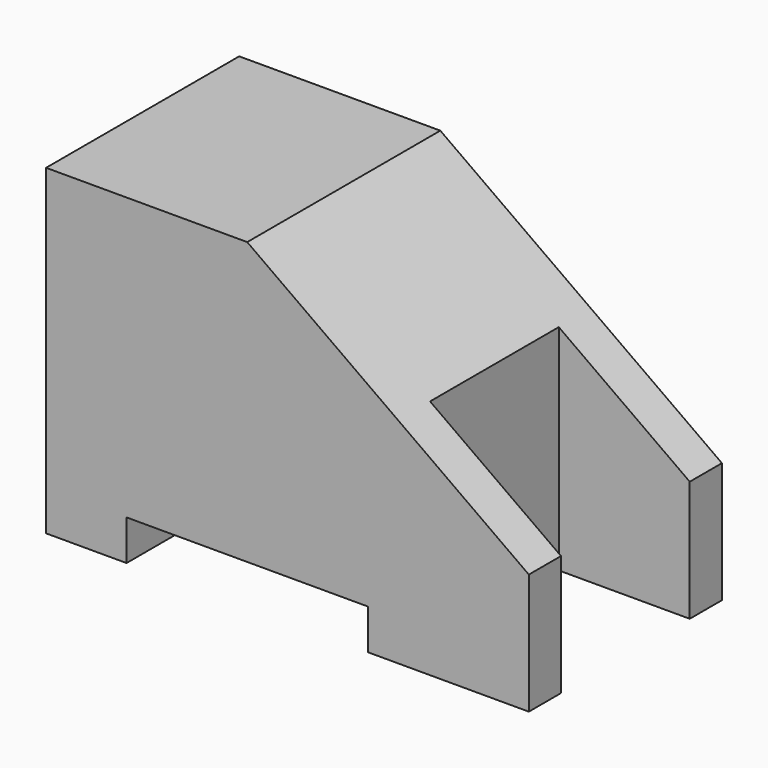
from build123d import *

# Parameters (mm, degrees)
F1_DEPTH = 15
F2_W     = 8.1373347121
F2_H     = 10
F3_DEPTH = 25


with BuildPart() as f1:
    # F0 (on Front) → F1 (new body)
    with BuildSketch(Plane.XZ):
        Polygon((0, 20), (0, 0), (5, 0), (5, 2.5), (20, 2.5), (20, 0), (30, 0), (30, 7.5), (12.5, 20), align=None)
    extrude(amount=F1_DEPTH)

    # F2 (on Top) → F3 (cut)
    with BuildSketch(Plane.XY):
        with Locations((25.931332644, -7.5)):
            Rectangle(F2_W, F2_H)
    extrude(amount=F3_DEPTH, mode=Mode.SUBTRACT)


solid = f1.part
